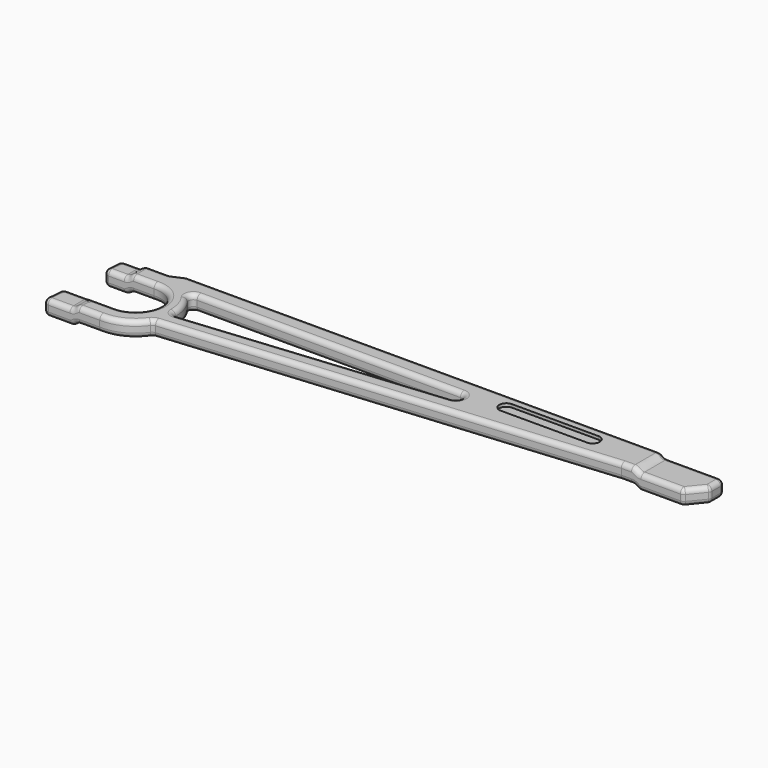
from build123d import *

# Parameters (mm, degrees)
PAD_DEPTH       = 6
POCKET_DEPTH    = 6
POCKET001_DEPTH = 1
POCKET002_DEPTH = 30
FILLET_R        = 1.5


with BuildPart() as obj1:
    # Sketch → Pad (new body)
    with BuildSketch(Plane.XY):
        with BuildLine():
            Line((96, 0), (96, 5.5))
            Line((96, 5.5), (91.5, 11))
            Line((91.5, 11), (72, 11))
            Line((72, 11), (-67, 23.5))
            ThreePointArc((-67, 23.5), (-72.171823, 28.215099), (-79, 29.75))
            Line((-87, 29.75), (-79, 29.75))
            Line((-97, 29.75), (-87, 29.75))
            Line((-97, 29.75), (-97, 22.55))
            Line((-97, 22.55), (-87, 22.55))
            Line((-87, 22.55), (-85.5, 24.05))
            Line((-85.5, 24.05), (-79, 24.05))
            ThreePointArc((-79, 8.15), (-70.514898, 16.1), (-79, 24.05))
            Line((-97, 8.15), (-79, 8.15))
            Line((-94.5, 1.75), (-97, 8.15))
            Line((-79, 1.75), (-94.5, 1.75))
            Line((-75, 0), (-79, 1.75))
            Line((-75, 0), (96, 0))
        make_face()
        with BuildLine():
            ThreePointArc((17, 6.25), (18.9, 8.15), (17, 10.05))
            Line((-65.760984, 18), (17, 10.05))
            ThreePointArc((-70.210984, 6.25), (-66.453589, 11.544646), (-65.760984, 18))
            Line((17, 6.25), (-70.210984, 6.25))
        make_face(mode=Mode.SUBTRACT)
    extrude(amount=PAD_DEPTH)

    # Sketch001 (on Face23 of Pad) → Pocket (cut)
    with BuildSketch(Plane.XY.offset(6)):
        Polygon((-97, 29.75), (-97, 1.75), (-94.5, 1.75), align=None)
    extrude(amount=-POCKET_DEPTH, mode=Mode.SUBTRACT)

    # Sketch002 (on Face5 of Pocket) → Pocket001 (cut)
    with BuildSketch(Plane.XY.offset(6)):
        with BuildLine():
            ThreePointArc((31, 7.75), (28.75, 5.5), (31, 3.25))
            Line((31, 3.25), (58.5, 3.25))
            ThreePointArc((58.5, 3.25), (60.75, 5.5), (58.5, 7.75))
            Line((31, 7.75), (58.5, 7.75))
        make_face()
    extrude(amount=-POCKET001_DEPTH, mode=Mode.SUBTRACT)

    # Sketch003 (on Face1 of Pocket001) → Pocket002 (cut)
    with BuildSketch(Plane.XZ):
        with BuildLine():
            Line((-98.5, 6), (-98.5, 4.9))
            Line((-98.5, 4.9), (-88.5, 4.9))
            add(Edge.make_bspline(
                [(-88.5, 4.9), (-87, 4.9), (-87, 6), (-85.5, 6)],
                knots=[0, 0, 0, 0, 1, 1, 1, 1], degree=3))
            Line((-85.5, 6), (-98.5, 6))
        make_face()
        with BuildLine():
            Line((78.25, 0), (-88.5, 0))
            add(Edge.make_bspline(
                [(-88.5, 0), (-87, 0), (-87, 1.1), (-85.5, 1.1)],
                knots=[0, 0, 0, 0, 1, 1, 1, 1], degree=3))
            Line((-85.5, 1.1), (75.25, 1.1))
            add(Edge.make_bspline(
                [(78.25, 0), (76.75, 0), (76.75, 1.1), (75.25, 1.1)],
                knots=[0, 0, 0, 0, 1, 1, 1, 1], degree=3))
        make_face()
        with BuildLine():
            Line((96, 6), (96, 4.9))
            Line((96, 4.9), (78.25, 4.9))
            add(Edge.make_bspline(
                [(78.25, 4.9), (76.75, 4.9), (76.75, 6), (75.25, 6)],
                knots=[0, 0, 0, 0, 1, 1, 1, 1], degree=3))
            Line((75.25, 6), (96, 6))
        make_face()
    extrude(amount=-POCKET002_DEPTH, mode=Mode.SUBTRACT)

    # Fillet
    fillet_edges = [obj1.edges().sort_by_distance(p)[0] for p in [
        (96, 2.75, 0),
        (96, 5.5, 2.45),
        (96, 2.75, 4.9),
        (96, 0, 2.45),
        (93.75, 8.25, 0),
        (91.5, 11, 2.45),
        (93.75, 8.25, 4.9),
        (84.875, 11, 0),
        (76.75, 11, 0.55),
        (73.625, 11, 1.1),
        (72, 11, 3.55),
        (73.625, 11, 6),
        (76.75, 11, 5.45),
        (84.875, 11, 4.9),
        (2.5, 17.25, 1.1),
        (-67, 23.5, 3.55),
        (2.5, 17.25, 6),
        (0.125, 0, 1.1),
        (76.750001, 0, 0.549999),
        (87.125, 0, 0),
        (87.125, 0, 4.9),
        (76.750001, 0, 5.449999),
        (0.125, 0, 6),
        (-75, 0, 3.55),
        (-24.380492, 14.025, 1.1),
        (17, 10.05, 3.55),
        (-24.380492, 14.025, 6),
        (-65.760984, 18, 3.55),
        (18.9, 8.15, 1.1),
        (18.9, 8.15, 6),
        (17, 6.25, 3.55),
        (-66.453589, 11.544646, 1.1),
        (-66.453589, 11.544646, 6),
        (-70.210984, 6.25, 3.55),
        (-26.605492, 6.25, 1.1),
        (-26.605492, 6.25, 6),
        (-72.171823, 28.215099, 1.1),
        (-79, 29.75, 3.55),
        (-72.171823, 28.215099, 6),
        (-86.300404, 29.75, 0.965134),
        (-82.25, 29.75, 1.1),
        (-82.25, 29.75, 6),
        (-86.300404, 29.75, 5.865134),
        (-87, 29.75, 3),
        (-92.75, 29.75, 0),
        (-87.699596, 29.75, 0.134866),
        (-87.699596, 29.75, 5.034866),
        (-92.75, 29.75, 4.9),
        (-97, 29.75, 2.45),
        (-96.678571, 26.15, 4.9),
        (-96.357143, 22.55, 2.45),
        (-96.678571, 26.15, 0),
        (-91.785714, 8.15, 0),
        (-87, 8.15, 0.55),
        (-82.25, 8.15, 1.1),
        (-79, 8.15, 3.55),
        (-82.25, 8.15, 6),
        (-87, 8.15, 5.45),
        (-91.785714, 8.15, 4.9),
        (-95.071429, 8.15, 2.45),
        (-70.514898, 16.1, 1.1),
        (-79, 24.05, 3.55),
        (-70.514898, 16.1, 6),
        (-94.785714, 4.95, 4.9),
        (-94.5, 1.75, 2.45),
        (-94.785714, 4.95, 0),
        (-92.428571, 22.55, 0),
        (-87.699596, 22.55, 0.134866),
        (-87, 22.55, 3),
        (-87.699596, 22.55, 5.034866),
        (-92.428571, 22.55, 4.9),
        (-82.25, 24.05, 1.1),
        (-82.25, 24.05, 6),
        (-85.5, 24.05, 3.55),
        (-86.277184, 23.272816, 0.973804),
        (-86.277184, 23.272816, 5.873804),
        (-82.25, 1.75, 1.1),
        (-87, 1.75, 0.55),
        (-91.5, 1.75, 0),
        (-91.5, 1.75, 4.9),
        (-87, 1.75, 5.45),
        (-82.25, 1.75, 6),
        (-79, 1.75, 3.55),
        (-77, 0.875, 1.1),
        (-77, 0.875, 6),
    ]]
    fillet(fillet_edges, radius=FILLET_R)


with BuildPart() as part_mirroring:
    # Part__Mirroring: instance of obj1
    add(obj1.part.mirror(Plane(origin=(0, 0, 0), x_dir=(1, 0, 0), z_dir=(0, 1, 0))))


solid = part_mirroring.part
